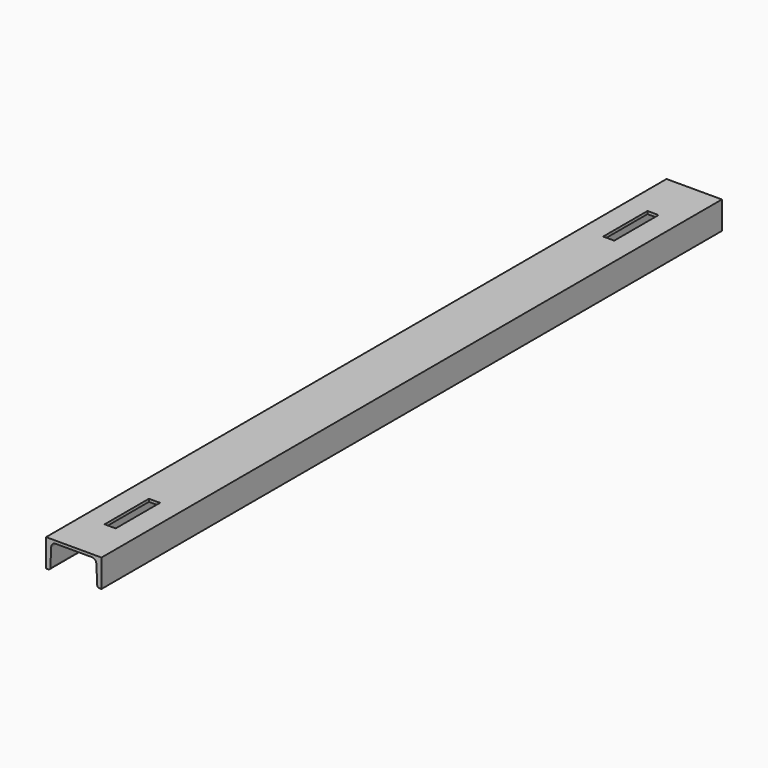
from build123d import *

# Parameters (mm, degrees)
F1_DEPTH = 1400
F2_W     = 20
F2_H     = 100
F3_DEPTH = 5


with BuildPart() as f1:
    # F0 (on Front) → F1 (new body)
    with BuildSketch(Plane.XZ):
        with BuildLine():
            Line((49.962816, 35.773941), (-50.037184, 35.773941))
            Line((-50.037184, 35.773941), (-50.037184, -14.226059))
            Line((-50.037184, -14.226059), (-46.350433, -14.226059))
            ThreePointArc((-46.350433, -14.226059), (-43.590398, -13.121264), (-42.355, -10.417164))
            Line((-42.355, -10.417164), (-40.749153, 23.156153))
            ThreePointArc((-40.749153, 23.156153), (-38.227094, 28.613997), (-32.616079, 30.773941))
            Line((-32.616079, 30.773941), (32.683921, 30.773941))
            ThreePointArc((32.683921, 30.773941), (38.203989, 28.564351), (40.674785, 23.156153))
            Line((40.674785, 23.156153), (42.280633, -10.417164))
            ThreePointArc((42.280633, -10.417164), (43.516031, -13.121264), (46.276065, -14.226059))
            Line((46.276065, -14.226059), (49.962816, -14.226059))
            Line((49.962816, -14.226059), (49.962816, 35.773941))
        make_face()
    extrude(amount=-F1_DEPTH)

    # F2 (on face) → F3 (cut, through all)
    with BuildSketch(Plane.XY.offset(35.773941)):
        with Locations((0, 132)):
            Rectangle(F2_W, F2_H)
        with Locations((0, 1257)):
            Rectangle(F2_W, F2_H)
    extrude(amount=-F3_DEPTH, mode=Mode.SUBTRACT)


solid = f1.part
